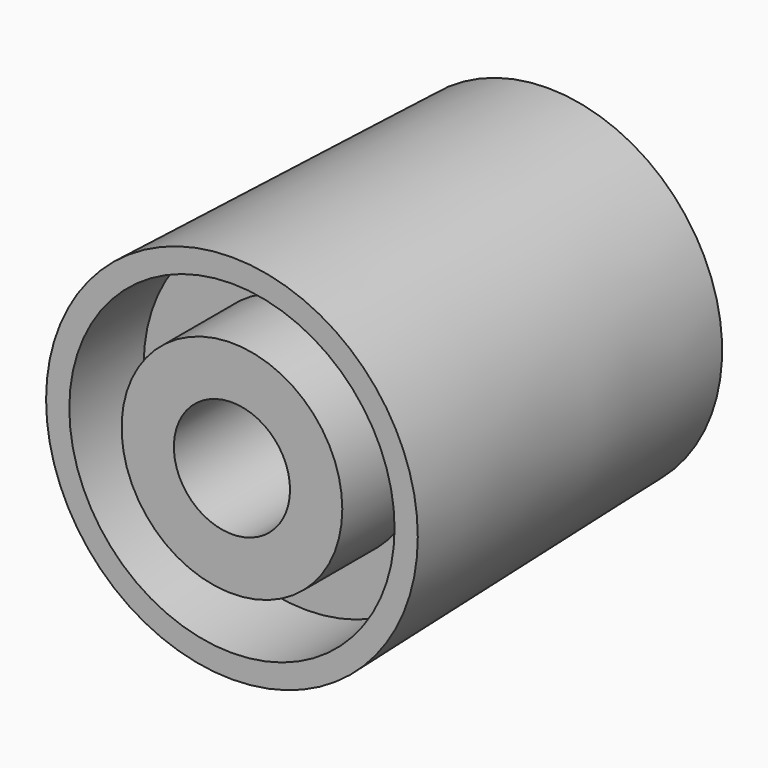
from build123d import *

# Parameters (mm, degrees)
F0_R     = 8
F0_R_2   = 2.5
F1_DEPTH = 17
F2_R     = 7
F2_R_2   = 4.75
F3_DEPTH = 4
F5_DEPTH = 2


with BuildPart() as f1:
    # F0 (on Front) → F1 (new body)
    with BuildSketch(Plane.XZ):
        Circle(F0_R)
        Circle(F0_R_2, mode=Mode.SUBTRACT)
    extrude(amount=F1_DEPTH)

    # F2 (on face) → F3 (cut)
    with BuildSketch(Plane.XZ.offset(17)):
        Circle(F2_R)
        Circle(F2_R_2, mode=Mode.SUBTRACT)
    extrude(amount=-F3_DEPTH, mode=Mode.SUBTRACT)

    # F4 (on face) → F5 (cut)
    with BuildSketch(Plane(origin=(0, 0, 0), x_dir=(-1, 0, 0), z_dir=(0, 1, 0))):
        with BuildLine():
            ThreePointArc((-3.223076, 0.417468), (-2.814583, 1.625), (-1.973076, 2.582532))
            Line((-1.973076, 2.582532), (-4.013494, 3.760567))
            ThreePointArc((-4.013494, 3.760567), (-4.76314, 2.75), (-5.263494, 1.595504))
            Line((-5.263494, 1.595504), (-3.223076, 0.417468))
        make_face()
        with BuildLine():
            Line((-3.223076, -0.417468), (-5.263494, -1.595504))
            ThreePointArc((-5.263494, -1.595504), (-4.76314, -2.75), (-4.013494, -3.760567))
            Line((-4.013494, -3.760567), (-1.973076, -2.582532))
            ThreePointArc((-1.973076, -2.582532), (-2.814583, -1.625), (-3.223076, -0.417468))
        make_face()
        with BuildLine():
            Line((1.973076, -2.582532), (4.013494, -3.760567))
            ThreePointArc((4.013494, -3.760567), (4.76314, -2.75), (5.263494, -1.595504))
            Line((5.263494, -1.595504), (3.223076, -0.417468))
            ThreePointArc((3.223076, -0.417468), (2.814583, -1.625), (1.973076, -2.582532))
        make_face()
        with BuildLine():
            Line((3.223076, 0.417468), (5.263494, 1.595504))
            ThreePointArc((5.263494, 1.595504), (4.76314, 2.75), (4.013494, 3.760567))
            Line((4.013494, 3.760567), (1.973076, 2.582532))
            ThreePointArc((1.973076, 2.582532), (2.814583, 1.625), (3.223076, 0.417468))
        make_face()
    extrude(amount=-F5_DEPTH, mode=Mode.SUBTRACT)

    # F6 (on Right) → F7 (revolve, cut)
    with BuildSketch(Plane.YZ):
        Polygon((0, 8), (-17, 8), (0, 7.5), align=None)
    revolve(axis=Axis((0, -3.680971, 0), (0, -1, 0)), mode=Mode.SUBTRACT)


solid = f1.part
